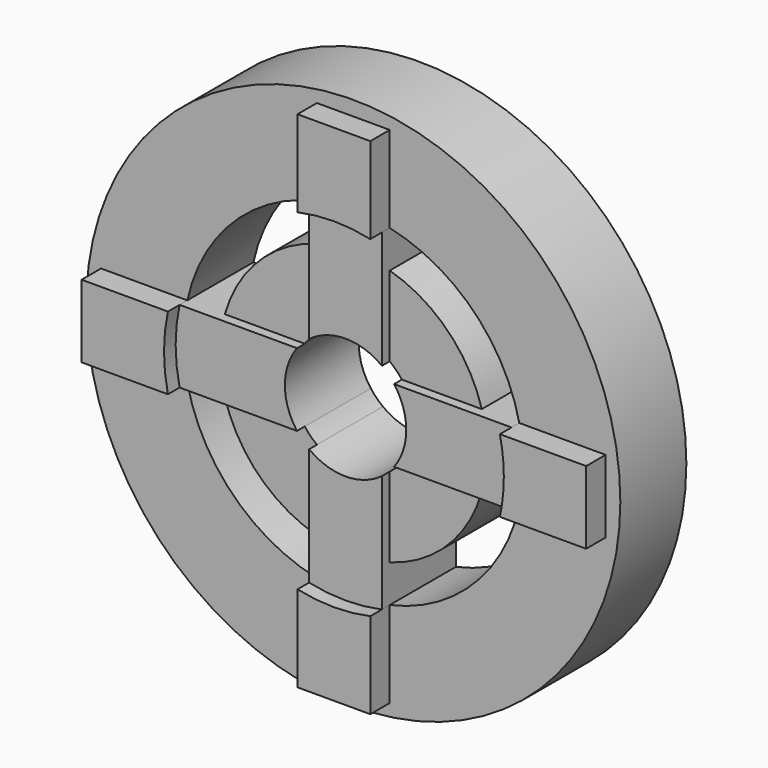
from build123d import *

# Parameters (mm, degrees)
F1_DEPTH = 1.7
F0_R     = 5.5
F2_DEPTH = 1.9
F3_DEPTH = 2.2


with BuildPart() as f1:
    # F0 (on Front) → F1 (new body)
    with BuildSketch(Plane.XZ):
        with BuildLine():
            ThreePointArc((0.75, 1), (0.8838834765, 0.8838834765), (1, 0.75))
            Line((1, 0.75), (2.6457513111, 0.75))
            ThreePointArc((2.6457513111, 0.75), (1.9445436483, 1.9445436483), (0.75, 2.6457513111))
            Line((0.75, 2.6457513111), (0.75, 1))
        make_face()
    extrude(amount=F1_DEPTH)


with BuildPart() as f1b:
    # F0 (on Front) → F1, piece 2 (new body)
    with BuildSketch(Plane.XZ):
        Circle(F0_R)
        with BuildLine():
            ThreePointArc((0.75, 5.1961524227), (3.7123106012, 3.7123106012), (5.1961524227, 0.75))
            ThreePointArc((5.1961524227, 0.75), (5.236520802, 0.3759652782), (5.25, 0))
            ThreePointArc((5.25, 0), (5.236520802, -0.3759652782), (5.1961524227, -0.75))
            ThreePointArc((5.1961524227, -0.75), (3.7123106012, -3.7123106012), (0.75, -5.1961524227))
            ThreePointArc((0.75, -5.1961524227), (0, -5.25), (-0.75, -5.1961524227))
            ThreePointArc((-0.75, -5.1961524227), (-3.7123106012, -3.7123106012), (-5.1961524227, -0.75))
            ThreePointArc((-5.1961524227, -0.75), (-5.25, 0), (-5.1961524227, 0.75))
            ThreePointArc((-5.1961524227, 0.75), (-3.7123106012, 3.7123106012), (-0.75, 5.1961524227))
            ThreePointArc((-0.75, 5.1961524227), (0, 5.25), (0.75, 5.1961524227))
        make_face(mode=Mode.SUBTRACT)
        with BuildLine():
            ThreePointArc((0.75, 3.4186985828), (2.4748737342, 2.4748737342), (3.4186985828, 0.75))
            Line((3.4186985828, 0.75), (5.1961524227, 0.75))
            ThreePointArc((5.1961524227, 0.75), (3.7123106012, 3.7123106012), (0.75, 5.1961524227))
            Line((0.75, 5.1961524227), (0.75, 3.4186985828))
        make_face()
        with BuildLine():
            Line((-0.75, -5.1961524227), (-0.75, -3.4186985828))
            ThreePointArc((-0.75, -3.4186985828), (-2.4748737342, -2.4748737342), (-3.4186985828, -0.75))
            Line((-3.4186985828, -0.75), (-5.1961524227, -0.75))
            ThreePointArc((-5.1961524227, -0.75), (-3.7123106012, -3.7123106012), (-0.75, -5.1961524227))
        make_face()
        with BuildLine():
            ThreePointArc((-3.4186985828, 0.75), (-2.4748737342, 2.4748737342), (-0.75, 3.4186985828))
            Line((-0.75, 3.4186985828), (-0.75, 5.1961524227))
            ThreePointArc((-0.75, 5.1961524227), (-3.7123106012, 3.7123106012), (-5.1961524227, 0.75))
            Line((-5.1961524227, 0.75), (-3.4186985828, 0.75))
        make_face()
        with BuildLine():
            Line((5.1961524227, -0.75), (3.4186985828, -0.75))
            ThreePointArc((3.4186985828, -0.75), (2.4748737342, -2.4748737342), (0.75, -3.4186985828))
            Line((0.75, -3.4186985828), (0.75, -5.1961524227))
            ThreePointArc((0.75, -5.1961524227), (3.7123106012, -3.7123106012), (5.1961524227, -0.75))
        make_face()
        with BuildLine():
            Line((-0.75, 5.1961524227), (0.75, 5.1961524227))
            ThreePointArc((0.75, 5.1961524227), (0, 5.25), (-0.75, 5.1961524227))
        make_face()
        with BuildLine():
            ThreePointArc((-0.75, -5.1961524227), (0, -5.25), (0.75, -5.1961524227))
            Line((0.75, -5.1961524227), (-0.75, -5.1961524227))
        make_face()
        with BuildLine():
            ThreePointArc((5.25, 0), (5.236520802, 0.3759652782), (5.1961524227, 0.75))
            Line((5.1961524227, 0.75), (5.1961524227, -0.75))
            ThreePointArc((5.1961524227, -0.75), (5.236520802, -0.3759652782), (5.25, 0))
        make_face()
        with BuildLine():
            Line((-5.1961524227, -0.75), (-5.1961524227, 0.75))
            ThreePointArc((-5.1961524227, 0.75), (-5.25, 0), (-5.1961524227, -0.75))
        make_face()
    extrude(amount=F1_DEPTH)


with BuildPart() as f1c:
    # F0 (on Front) → F1, piece 3 (new body)
    with BuildSketch(Plane.XZ):
        with BuildLine():
            ThreePointArc((-1, 0.75), (-0.8838834765, 0.8838834765), (-0.75, 1))
            Line((-0.75, 1), (-0.75, 2.6457513111))
            ThreePointArc((-0.75, 2.6457513111), (-1.9445436483, 1.9445436483), (-2.6457513111, 0.75))
            Line((-2.6457513111, 0.75), (-1, 0.75))
        make_face()
    extrude(amount=F1_DEPTH)


with BuildPart() as f1d:
    # F0 (on Front) → F1, piece 4 (new body)
    with BuildSketch(Plane.XZ):
        with BuildLine():
            Line((-0.75, -2.6457513111), (-0.75, -1))
            ThreePointArc((-0.75, -1), (-0.8838834765, -0.8838834765), (-1, -0.75))
            Line((-1, -0.75), (-2.6457513111, -0.75))
            ThreePointArc((-2.6457513111, -0.75), (-1.9445436483, -1.9445436483), (-0.75, -2.6457513111))
        make_face()
    extrude(amount=F1_DEPTH)


with BuildPart() as f1e:
    # F0 (on Front) → F1, piece 5 (new body)
    with BuildSketch(Plane.XZ):
        with BuildLine():
            Line((2.6457513111, -0.75), (1, -0.75))
            ThreePointArc((1, -0.75), (0.8838834765, -0.8838834765), (0.75, -1))
            Line((0.75, -1), (0.75, -2.6457513111))
            ThreePointArc((0.75, -2.6457513111), (1.9445436483, -1.9445436483), (2.6457513111, -0.75))
        make_face()
    extrude(amount=F1_DEPTH)


with BuildPart() as f2:
    # F0 (on Front) → F2 (new body)
    with BuildSketch(Plane.XZ):
        with BuildLine():
            ThreePointArc((-2.6457513111, -0.75), (-2.75, 0), (-2.6457513111, 0.75))
            Line((-2.6457513111, 0.75), (-3.4186985828, 0.75))
            ThreePointArc((-3.4186985828, 0.75), (-3.5, 0), (-3.4186985828, -0.75))
            Line((-3.4186985828, -0.75), (-2.6457513111, -0.75))
        make_face()
        with BuildLine():
            ThreePointArc((-1, -0.75), (-1.25, 0), (-1, 0.75))
            Line((-1, 0.75), (-2.6457513111, 0.75))
            ThreePointArc((-2.6457513111, 0.75), (-2.75, 0), (-2.6457513111, -0.75))
            Line((-2.6457513111, -0.75), (-1, -0.75))
        make_face()
    extrude(amount=F2_DEPTH)


with BuildPart() as f2b:
    # F0 (on Front) → F2, piece 2 (new body)
    with BuildSketch(Plane.XZ):
        with BuildLine():
            ThreePointArc((-0.75, 1), (0, 1.25), (0.75, 1))
            Line((0.75, 1), (0.75, 2.6457513111))
            ThreePointArc((0.75, 2.6457513111), (0, 2.75), (-0.75, 2.6457513111))
            Line((-0.75, 2.6457513111), (-0.75, 1))
        make_face()
        with BuildLine():
            ThreePointArc((-0.75, 2.6457513111), (0, 2.75), (0.75, 2.6457513111))
            Line((0.75, 2.6457513111), (0.75, 3.4186985828))
            ThreePointArc((0.75, 3.4186985828), (0, 3.5), (-0.75, 3.4186985828))
            Line((-0.75, 3.4186985828), (-0.75, 2.6457513111))
        make_face()
    extrude(amount=F2_DEPTH)


with BuildPart() as f2c:
    # F0 (on Front) → F2, piece 3 (new body)
    with BuildSketch(Plane.XZ):
        with BuildLine():
            Line((3.4186985828, 0.75), (2.6457513111, 0.75))
            ThreePointArc((2.6457513111, 0.75), (2.7238131457, 0.3786052658), (2.75, 0))
            ThreePointArc((2.75, 0), (2.7238131457, -0.3786052658), (2.6457513111, -0.75))
            Line((2.6457513111, -0.75), (3.4186985828, -0.75))
            ThreePointArc((3.4186985828, -0.75), (3.4796152833, -0.3771968718), (3.5, 0))
            ThreePointArc((3.5, 0), (3.4796152833, 0.3771968718), (3.4186985828, 0.75))
        make_face()
        with BuildLine():
            ThreePointArc((1, 0.75), (1.1858541226, 0.3952847075), (1.25, 0))
            ThreePointArc((1.25, 0), (1.1858541226, -0.3952847075), (1, -0.75))
            Line((1, -0.75), (2.6457513111, -0.75))
            ThreePointArc((2.6457513111, -0.75), (2.7238131457, -0.3786052658), (2.75, 0))
            ThreePointArc((2.75, 0), (2.7238131457, 0.3786052658), (2.6457513111, 0.75))
            Line((2.6457513111, 0.75), (1, 0.75))
        make_face()
    extrude(amount=F2_DEPTH)


with BuildPart() as f2d:
    # F0 (on Front) → F2, piece 4 (new body)
    with BuildSketch(Plane.XZ):
        with BuildLine():
            Line((0.75, -3.4186985828), (0.75, -2.6457513111))
            ThreePointArc((0.75, -2.6457513111), (0, -2.75), (-0.75, -2.6457513111))
            Line((-0.75, -2.6457513111), (-0.75, -3.4186985828))
            ThreePointArc((-0.75, -3.4186985828), (0, -3.5), (0.75, -3.4186985828))
        make_face()
        with BuildLine():
            Line((0.75, -2.6457513111), (0.75, -1))
            ThreePointArc((0.75, -1), (0, -1.25), (-0.75, -1))
            Line((-0.75, -1), (-0.75, -2.6457513111))
            ThreePointArc((-0.75, -2.6457513111), (0, -2.75), (0.75, -2.6457513111))
        make_face()
    extrude(amount=F2_DEPTH)


with BuildPart() as f3:
    # F0 (on Front) → F3 (new body)
    with BuildSketch(Plane.XZ):
        with BuildLine():
            ThreePointArc((-3.4186985828, -0.75), (-3.5, 0), (-3.4186985828, 0.75))
            Line((-3.4186985828, 0.75), (-5.1961524227, 0.75))
            Line((-5.1961524227, 0.75), (-5.1961524227, -0.75))
            Line((-5.1961524227, -0.75), (-3.4186985828, -0.75))
        make_face()
    extrude(amount=F3_DEPTH)


with BuildPart() as f3b:
    # F0 (on Front) → F3, piece 2 (new body)
    with BuildSketch(Plane.XZ):
        with BuildLine():
            ThreePointArc((-0.75, 3.4186985828), (0, 3.5), (0.75, 3.4186985828))
            Line((0.75, 3.4186985828), (0.75, 5.1961524227))
            Line((0.75, 5.1961524227), (-0.75, 5.1961524227))
            Line((-0.75, 5.1961524227), (-0.75, 3.4186985828))
        make_face()
    extrude(amount=F3_DEPTH)


with BuildPart() as f3c:
    # F0 (on Front) → F3, piece 3 (new body)
    with BuildSketch(Plane.XZ):
        with BuildLine():
            Line((5.1961524227, 0.75), (3.4186985828, 0.75))
            ThreePointArc((3.4186985828, 0.75), (3.4796152833, 0.3771968718), (3.5, 0))
            ThreePointArc((3.5, 0), (3.4796152833, -0.3771968718), (3.4186985828, -0.75))
            Line((3.4186985828, -0.75), (5.1961524227, -0.75))
            Line((5.1961524227, -0.75), (5.1961524227, 0.75))
        make_face()
    extrude(amount=F3_DEPTH)


with BuildPart() as f3d:
    # F0 (on Front) → F3, piece 4 (new body)
    with BuildSketch(Plane.XZ):
        with BuildLine():
            Line((0.75, -5.1961524227), (0.75, -3.4186985828))
            ThreePointArc((0.75, -3.4186985828), (0, -3.5), (-0.75, -3.4186985828))
            Line((-0.75, -3.4186985828), (-0.75, -5.1961524227))
            Line((-0.75, -5.1961524227), (0.75, -5.1961524227))
        make_face()
    extrude(amount=F3_DEPTH)


solid = Compound([f1.part, f1b.part, f1c.part, f1d.part, f1e.part, f2.part, f2b.part, f2c.part, f2d.part, f3.part, f3b.part, f3c.part, f3d.part])
